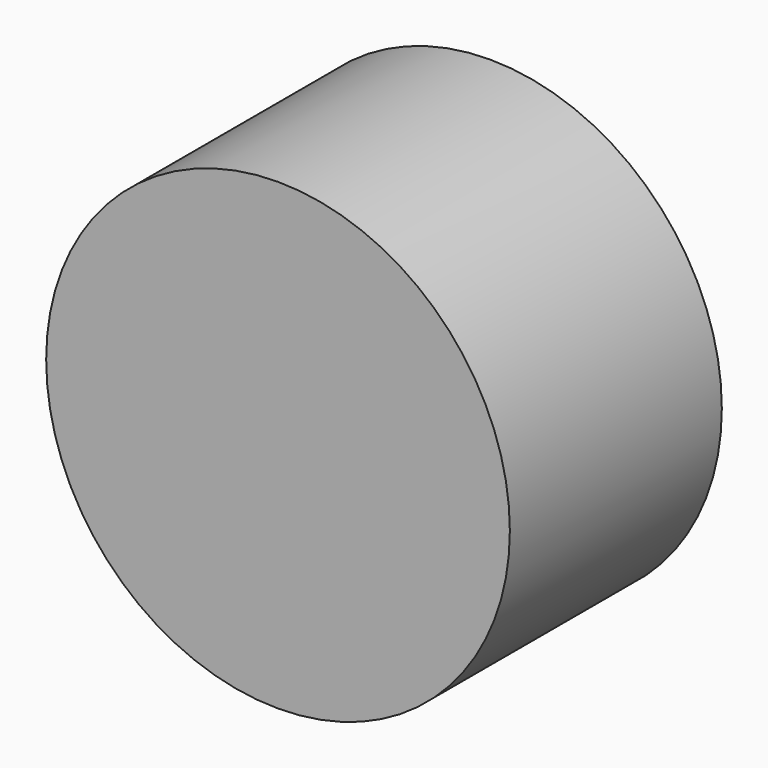
from build123d import *

# Parameters (mm, degrees)
F0_R     = 14
F1_DEPTH = 8
F2_R     = 1.5
F3_DEPTH = 2.8


with BuildPart() as f1:
    # F0 (on Front) → F1 (new body, symmetric)
    with BuildSketch(Plane.XZ):
        Circle(F0_R)
    extrude(amount=F1_DEPTH, both=True)

    # F2 (on face) → F3 (cut)
    with BuildSketch(Plane(origin=(0, 8, 0), x_dir=(-1, 0, 0), z_dir=(0, 1, 0))):
        with Locations((0, 8.25)):
            Circle(F2_R)
        with Locations((0, -8.25)):
            Circle(F2_R)
        with Locations((9.5, 0)):
            Circle(F2_R)
        with Locations((-9.5, 0)):
            Circle(F2_R)
    extrude(amount=-F3_DEPTH, mode=Mode.SUBTRACT)


solid = f1.part
